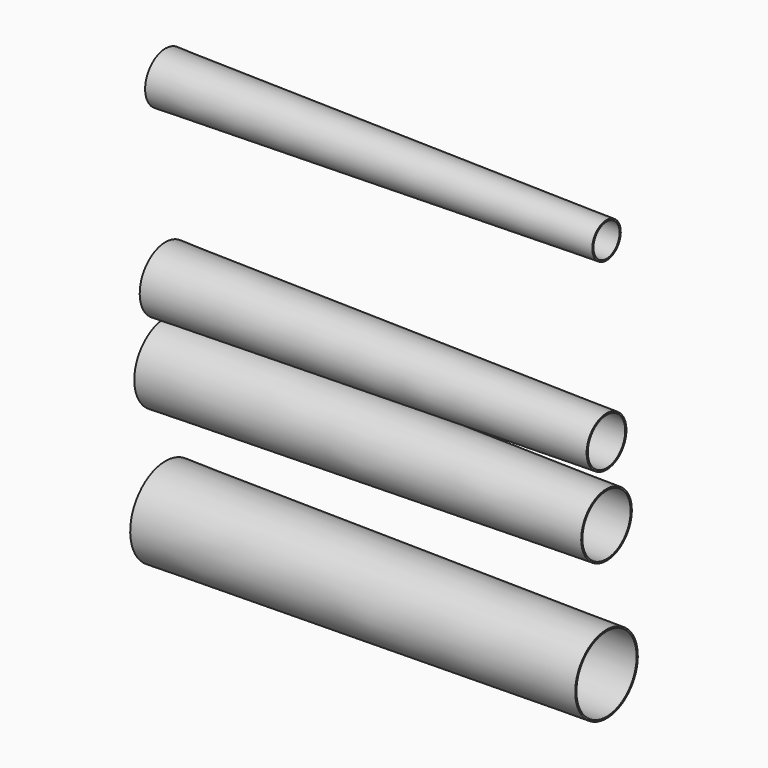
from build123d import *


with BuildPart() as f1:
    # F0 (on Front) → F1 (revolve)
    with BuildSketch(Plane.XZ):
        Polygon((150, 13.3), (0, 15), (0, 14.5), (150, 12.8), align=None)
    revolve(axis=Axis((60, 0, 0), (1, 0, 0)))


with BuildPart() as f3:
    # F2 (on Front) → F3 (revolve)
    with BuildSketch(Plane.XZ):
        Polygon((150, 55.423491), (0, 57.923491), (0, 57.423491), (150, 54.923491), align=None)
    revolve(axis=Axis((60, 0, 44.663491), (1, 0, 0)))


with BuildPart() as f5:
    # F4 (on Front) → F5 (revolve)
    with BuildSketch(Plane.XZ):
        Polygon((150, 78.062318), (0, 80.562318), (0, 80.062318), (150, 77.562318), align=None)
    revolve(axis=Axis((60, 0, 69.602318), (1, 0, 0)))


with BuildPart() as f7:
    # F6 (on Front) → F7 (revolve)
    with BuildSketch(Plane.XZ):
        Polygon((150, 135.944218), (0, 138.544218), (0, 138.044218), (150, 135.444218), align=None)
    revolve(axis=Axis((60, 0, 129.884218), (1, 0, 0)))


solid = Compound([f1.part, f3.part, f5.part, f7.part])
